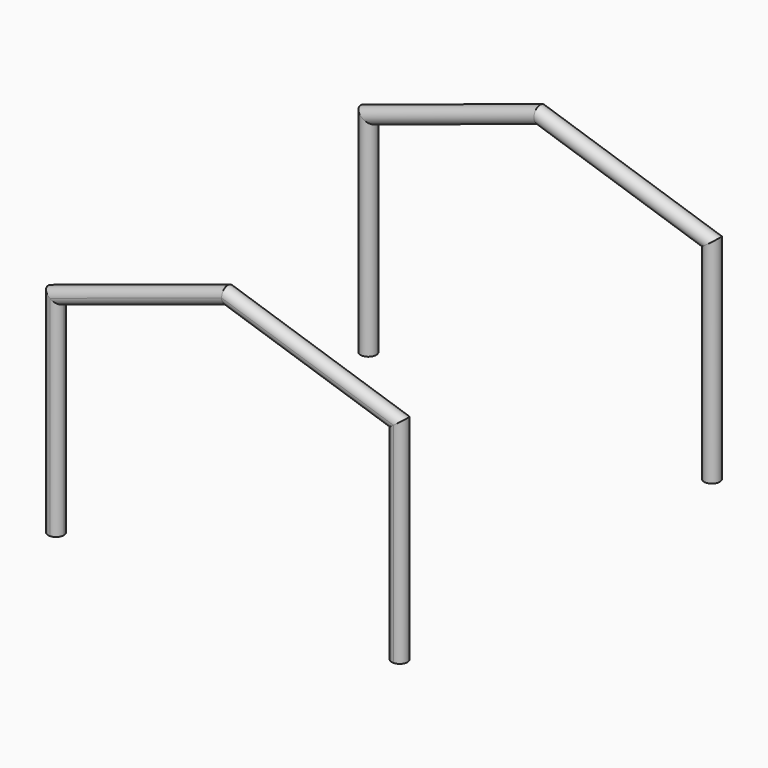
from build123d import *

# Parameters (mm, degrees)
F1_R = 25


with BuildPart() as f10:
    # F10: sweep along a path in F0
    with BuildLine(Plane.XZ) as f10_path:
        Line((1100, 0), (1100, 670))
        Line((1100, 670), (550, 850))
        Line((550, 850), (0, 670))
        Line((0, 670), (0, 0))
    # F1 (on Top) → F10 (sweep)
    with BuildSketch(Plane.XY):
        Circle(F1_R)
    sweep(path=f10_path.line, transition=Transition.RIGHT)


with BuildPart() as f13:
    # F13: sweep along a path in F5
    with BuildLine(Plane.XZ.offset(1250)) as f13_path:
        Line((0, 0), (0, 670))
        Line((0, 670), (550, 850))
        Line((550, 850), (1100, 670))
        Line((1100, 670), (1100, 0))
    # F12 (on plane+point) → F13 (sweep)
    with BuildSketch(Plane.XY):
        with BuildLine():
            ThreePointArc((25, -1250), (17.6776695297, -1232.3223304703), (0, -1225))
            Line((0, -1225), (0, -1250))
            Line((0, -1250), (0, -1275))
            ThreePointArc((0, -1275), (17.6776695297, -1267.6776695297), (25, -1250))
        make_face()
        with BuildLine():
            Line((0, -1250), (0, -1225))
            ThreePointArc((0, -1225), (-25, -1250), (0, -1275))
            Line((0, -1275), (0, -1250))
        make_face()
    sweep(path=f13_path.line, transition=Transition.RIGHT)


solid = Compound([f10.part, f13.part])
